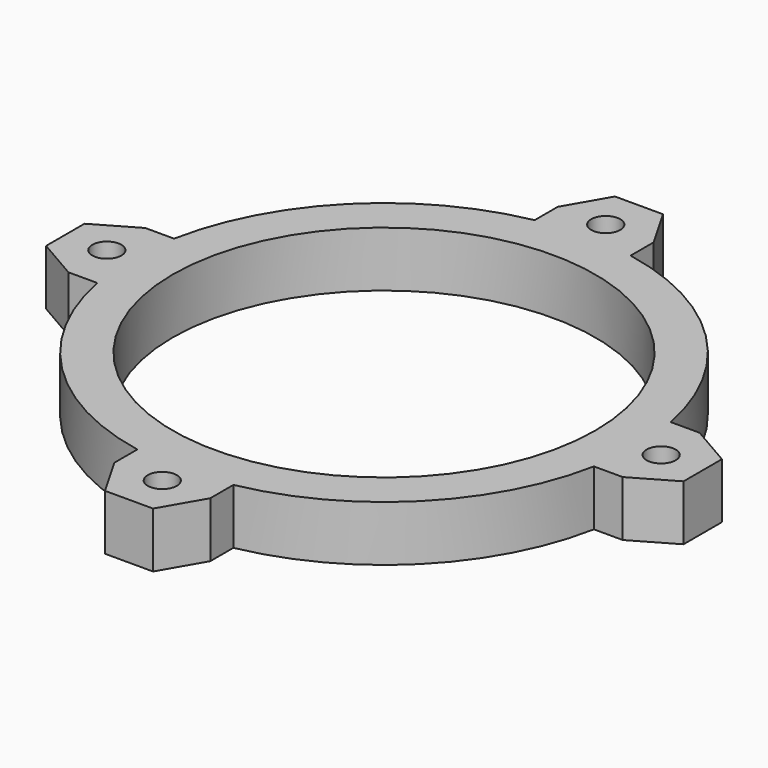
from build123d import *

# Parameters (mm, degrees)
SKETCH_R              = 36.5
SKETCH_R_2            = 30.5
PAD_DEPTH             = 8
SKETCH002_R           = 2.1
PAD001_DEPTH          = 8
POLARPATTERN_COUNT    = 4
POCKET001_DEPTH       = 5
POLARPATTERN001_COUNT = 4


with BuildPart() as part:
    # Sketch → Pad (new body)
    with BuildSketch(Plane.XY):
        Circle(SKETCH_R)
        Circle(SKETCH_R_2, mode=Mode.SUBTRACT)
    extrude(amount=PAD_DEPTH)

    # Sketch002 (on Face3 of Pad) → Pad001 (join)
    with BuildSketch(Plane(origin=(0, 0, 0), x_dir=(1, 0, 0), z_dir=(0, 0, -1))):
        with BuildLine():
            Line((-40, 6.928203), (-46, 3.464102))
            Line((-46, 3.464102), (-46, -3.464102))
            Line((-46, -3.464102), (-40, -6.928203))
            Line((-40, -6.928203), (-35.836434, -6.928203))
            ThreePointArc((-35.836434, 6.928203), (-36.5, 0), (-35.836434, -6.928203))
            Line((-40, 6.928203), (-35.836434, 6.928203))
        make_face()
        with Locations((-40, 0)):
            Circle(SKETCH002_R, mode=Mode.SUBTRACT)
    pad001 = extrude(amount=-PAD001_DEPTH)

    # PolarPattern: Pad001 ×4 about axis
    polarpattern_axis = Axis((0, 0, 0), (0, 0, -1))
    for i in range(1, POLARPATTERN_COUNT):
        add(pad001.rotate(polarpattern_axis, i * 360 / POLARPATTERN_COUNT))

    # Sketch003 (on Face2 of PolarPattern) → Pocket001 (cut)
    with BuildSketch(Plane(origin=(0, 0, 0), x_dir=(1, 0, 0), z_dir=(0, 0, -1))):
        Polygon((-36.5, 2.020726), (-40, 4.041452), (-43.5, 2.020726), (-43.5, -2.020726), (-40, -4.041452), (-36.5, -2.020726), align=None)
    pocket001 = extrude(amount=-POCKET001_DEPTH, mode=Mode.SUBTRACT)

    # PolarPattern001: Pocket001 ×4 about axis
    polarpattern001_axis = Axis((0, 0, 0), (0, 0, -1))
    for i in range(1, POLARPATTERN001_COUNT):
        add(pocket001.rotate(polarpattern001_axis, i * 360 / POLARPATTERN001_COUNT), mode=Mode.SUBTRACT)


solid = part.part
